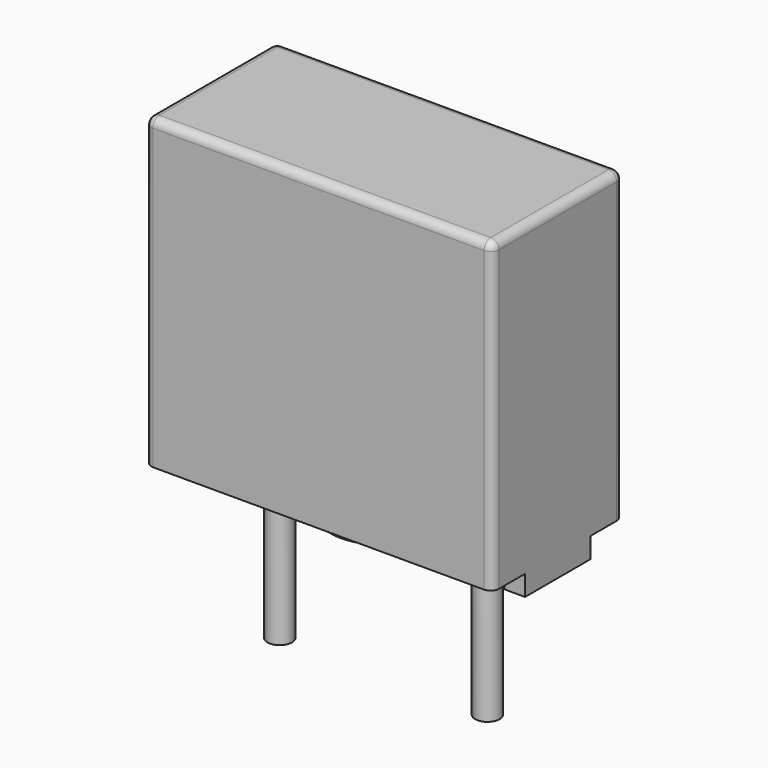
from build123d import *

# Parameters (mm, degrees)
CYLINDER_R           = 1.3
CYLINDER_DEPTH       = 0.5
CYLINDER001_R        = 0.3
CYLINDER001_DEPTH    = 4
CYLINDER001001_R     = 0.3
CYLINDER001001_DEPTH = 4
BOX001001001_W       = 10.5
BOX001001001_H       = 3
BOX001001001_DEPTH   = 0.5
BOX001_W             = 7.5
BOX001_H             = 6
BOX001_DEPTH         = 0.5
BOX001001_W          = 10.5
BOX001001_H          = 3
BOX001001_DEPTH      = 0.5
BOX_W                = 8.5
BOX_H                = 4
BOX_DEPTH            = 8
FILLET_R             = 0.2


with BuildPart() as cylinder:
    # Cylinder → Cylinder (new body)
    with BuildSketch(Plane.XY):
        Circle(CYLINDER_R)
    extrude(amount=CYLINDER_DEPTH)


with BuildPart() as pin:
    # Cylinder001 → Cylinder001 (new body)
    with BuildSketch(Plane(origin=(-2.54, 0, -3.5), x_dir=(1, 0, 0), z_dir=(0, 0, 1))):
        Circle(CYLINDER001_R)
    extrude(amount=CYLINDER001_DEPTH)


with BuildPart() as pin001:
    # Cylinder001001 → Cylinder001001 (new body)
    with BuildSketch(Plane(origin=(2.54, 0, -3.5), x_dir=(1, 0, 0), z_dir=(0, 0, 1))):
        Circle(CYLINDER001001_R)
    extrude(amount=CYLINDER001001_DEPTH)


with BuildPart() as box001001001:
    # Box001001001 → Box001001001 (new body)
    with BuildSketch(Plane(origin=(-5.74, 1, 0), x_dir=(1, 0, 0), z_dir=(0, 0, 1))):
        with Locations((5.25, 1.5)):
            Rectangle(BOX001001001_W, BOX001001001_H)
    extrude(amount=BOX001001001_DEPTH)


with BuildPart() as box001:
    # Box001 → Box001 (new body)
    with BuildSketch(Plane(origin=(-3.74, -3, 0), x_dir=(1, 0, 0), z_dir=(0, 0, 1))):
        with Locations((3.75, 3)):
            Rectangle(BOX001_W, BOX001_H)
    extrude(amount=BOX001_DEPTH)


with BuildPart() as fusion:
    # Box001001 → Box001001 (new body)
    with BuildSketch(Plane(origin=(-5.74, -4, 0), x_dir=(1, 0, 0), z_dir=(0, 0, 1))):
        with Locations((5.25, 1.5)):
            Rectangle(BOX001001_W, BOX001001_H)
    extrude(amount=BOX001001_DEPTH)

    # Fusion: union Box001001001, Box001
    add(box001001001.part)
    add(box001.part)


with BuildPart() as obj1:
    # Box → Box (new body)
    with BuildSketch(Plane(origin=(-4.24, -2, 0), x_dir=(1, 0, 0), z_dir=(0, 0, 1))):
        with Locations((4.25, 2)):
            Rectangle(BOX_W, BOX_H)
    extrude(amount=BOX_DEPTH)

    # Cut: cut Fusion
    add(fusion.part, mode=Mode.SUBTRACT)

    # Fillet
    fillet_edges = [obj1.edges().sort_by_distance(p)[0] for p in [
        (-4.24, 0, 8),
        (0.01, 2, 8),
        (4.26, 0, 8),
        (0.01, -2, 8),
        (-4.24, -2, 4.25),
        (-4.24, 2, 4.25),
        (4.26, 2, 4.25),
        (4.26, -2, 4.25),
    ]]
    fillet(fillet_edges, radius=FILLET_R)

    # Fusion001: union Cylinder, PIN, PIN001
    add(cylinder.part)
    add(pin.part)
    add(pin001.part)


solid = obj1.part
